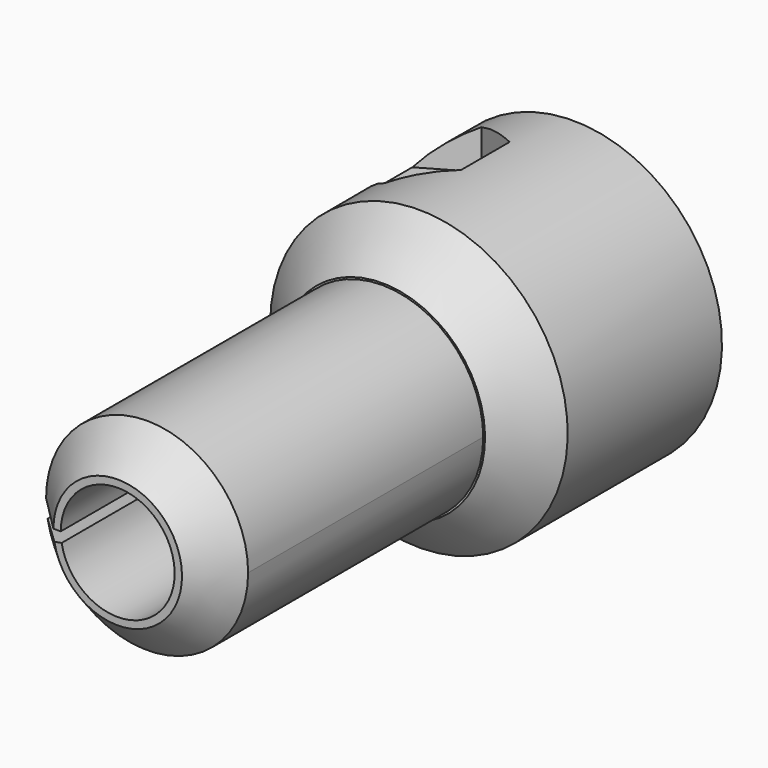
from build123d import *

# Parameters (mm, degrees)
REVOLUTION_ANGLE = 350
SKETCH002_R      = 1.5
POCKET_DEPTH     = 22.101
POCKET001_DEPTH  = 9
SKETCH003_R      = 2.7
POCKET002_DEPTH  = 11
SKETCH004_R      = 8.1
SKETCH004_R_2    = 5.5
POCKET003_DEPTH  = 18
CHAMFER_SIZE     = 2.5
CHAMFER001_SIZE  = 2
PAD_DEPTH        = 2
CHAMFER002_SIZE  = 1.9


with BuildPart() as part:
    # Sketch → Revolution (revolve)
    with BuildSketch(Plane.XY):
        Polygon((-2.1, 8), (-2.1, 0), (-3.1, 0), (-3.1, -23), (-8.1, -23), (-8.1, 8), align=None)
    revolve(axis=Axis((0, 0, 0), (0, 1, 0)), revolution_arc=REVOLUTION_ANGLE)

    # Sketch002 (on DatumPlane) → Pocket (cut, through all)
    with BuildSketch(Plane.XY.offset(14)):
        with Locations((-3.8, 3.2)):
            Circle(SKETCH002_R)
    extrude(amount=-POCKET_DEPTH, mode=Mode.SUBTRACT)

    # Sketch001 (on DatumPlane) → Pocket001 (cut)
    with BuildSketch(Plane.XY.offset(14)):
        Polygon((-3.8, -0.1), (-0.942116, 1.55), (-0.942116, 4.85), (-3.8, 6.5), (-6.657884, 4.85), (-6.657884, 1.55), align=None)
    extrude(amount=-POCKET001_DEPTH, mode=Mode.SUBTRACT)

    # Sketch003 (on DatumPlane) → Pocket002 (cut)
    with BuildSketch(Plane.XY.offset(-15)):
        with Locations((-3.8, 3.2)):
            Circle(SKETCH003_R)
    extrude(amount=POCKET002_DEPTH, mode=Mode.SUBTRACT)

    # Sketch004 (on Face8 of Pocket002) → Pocket003 (cut)
    with BuildSketch(Plane.XZ.offset(23)):
        Circle(SKETCH004_R)
        Circle(SKETCH004_R_2, mode=Mode.SUBTRACT)
    extrude(amount=-POCKET003_DEPTH, mode=Mode.SUBTRACT)

    # Chamfer
    chamfer_edges = [part.edges().sort_by_distance(p)[0] for p in [
        (0.705962, -5, -8.069177),
    ]]
    chamfer(chamfer_edges, length=CHAMFER_SIZE)

    # Chamfer001
    chamfer001_edges = [part.edges().sort_by_distance(p)[0] for p in [
        (0.479357, -23, -5.479071),
    ]]
    chamfer(chamfer001_edges, length=CHAMFER001_SIZE)

    # Sketch005 (on Face10 of Chamfer001) → Pad (join)
    with BuildSketch(Plane(origin=(0, 8, 0), x_dir=(-1, 0, 0), z_dir=(0, 1, 0))):
        with BuildLine():
            ThreePointArc((5, 0), (-4.980973, 0.435779), (4.924039, -0.868241))
            Line((2.068096, -0.364661), (4.924039, -0.868241))
            ThreePointArc((2.1, 0), (-2.092009, 0.183027), (2.068096, -0.364661))
            Line((2.1, 0), (5, 0))
        make_face()
    extrude(amount=PAD_DEPTH)

    # Chamfer002
    chamfer002_edges = [part.edges().sort_by_distance(p)[0] for p in [
        (4.980973, 10, 0.435779),
    ]]
    chamfer(chamfer002_edges, length=CHAMFER002_SIZE)


solid = part.part
